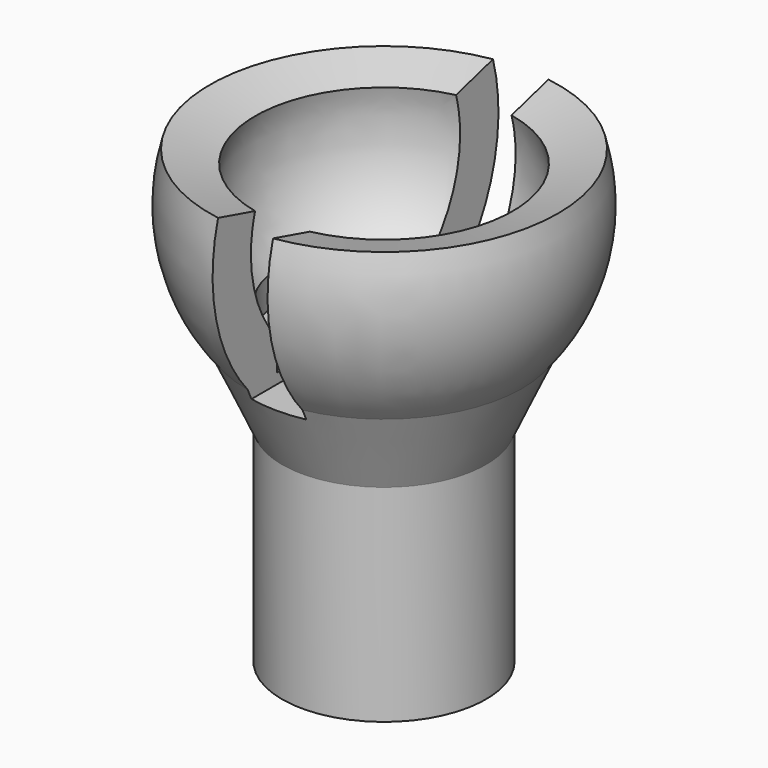
from build123d import *

# Parameters (mm, degrees)
F3_DEPTH      = 19.195522
F3_DEPTH_BACK = 25


with BuildPart() as f1:
    # F0 (on Front) → F1 (revolve)
    with BuildSketch(Plane.XZ):
        with BuildLine():
            Line((-13.664273, 21.385296), (-18.477494, 22.739145))
            ThreePointArc((-18.477494, 22.739145), (-18.752849, 13.447908), (-14.630347, 5.116768))
            Line((-14.630347, 5.116768), (-10.819274, -3.231246))
            Line((-10.819274, -3.231246), (-10.819274, -25.132127))
            Line((-10.819274, -25.132127), (-5.56574, -25.132127))
            Line((-5.56574, -25.132127), (-5.56574, 5.116768))
            Line((-5.56574, 5.116768), (-10.819274, 5.116768))
            Line((-10.819274, 5.116768), (-10.819274, 8.353389))
            ThreePointArc((-10.819274, 8.353389), (-13.867901, 14.514342), (-13.664273, 21.385296))
        make_face()
    revolve(axis=Axis((0, 0, 16.998906), (0, 0, 1)))

    # F2 (on Front) → F3 (cut, two sides)
    with BuildSketch(Plane.XZ) as f3_sk:
        Polygon((-3.022686, 4.021086), (0, 4.021086), (2.834111, 4.021086), (2.834111, 26.084358), (-3.022686, 26.084358), align=None)
    extrude(amount=F3_DEPTH, mode=Mode.SUBTRACT)
    extrude(f3_sk.sketch, amount=-F3_DEPTH_BACK, mode=Mode.SUBTRACT)


solid = f1.part
